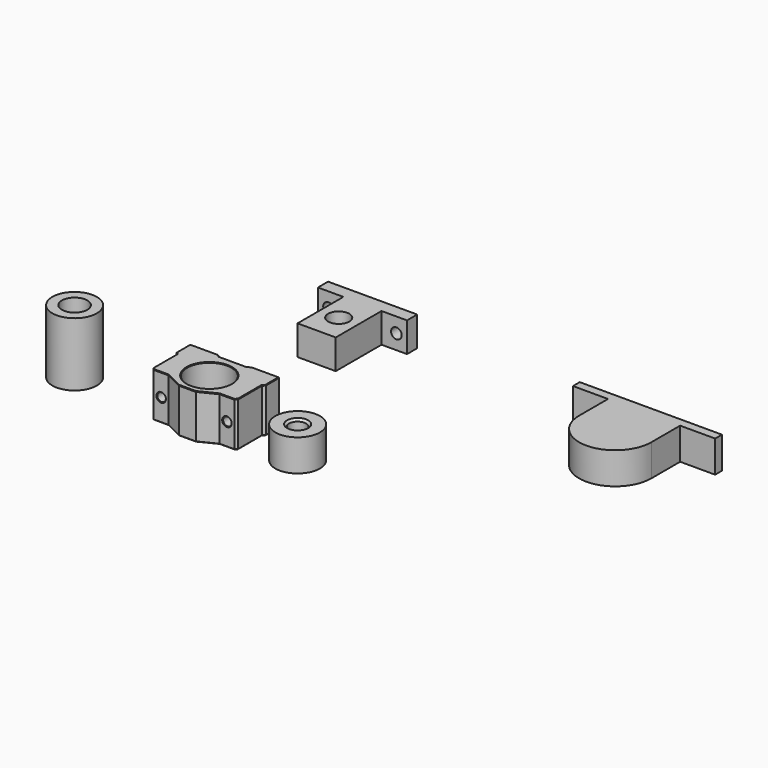
from build123d import *

# Parameters (mm, degrees)
F0_R      = 5
F1_DEPTH  = 14
F2_R      = 2.5
F3_DEPTH  = 6.001
F4_R      = 10.5
F5_DEPTH  = 21
F6_SIZE   = 1
F7_R      = 2
F8_DEPTH  = 28.001
F9_SIZE   = 0.25
F10_R     = 10.5
F10_R_2   = 4
F11_DEPTH = 15
F12_SIZE  = 1
F13_R     = 10.5
F13_R_2   = 6
F14_DEPTH = 30
F16_DEPTH = 15


with BuildPart() as f1:
    # F0 (on Top) → F1 (new body)
    with BuildSketch(Plane.XY):
        Polygon((0, 50.274196), (-21, 50.274196), (-21, 44.274196), (-9, 44.274196), (-9, 17.274196), (9, 17.274196), (9, 44.274196), (21, 44.274196), (21, 50.274196), align=None)
        with Locations((0, 30.274196)):
            Circle(F0_R, mode=Mode.SUBTRACT)
    extrude(amount=F1_DEPTH)

    # F2 (on face) → F3 (cut, through all)
    with BuildSketch(Plane.XZ.offset(-44.274196)):
        with Locations((-16, 7)):
            Circle(F2_R)
        with Locations((16, 7)):
            Circle(F2_R)
    extrude(amount=-F3_DEPTH, mode=Mode.SUBTRACT)


with BuildPart() as f5:
    # F4 (on Top) → F5 (new body)
    with BuildSketch(Plane.XY):
        Polygon((-8, -30.952703), (-21, -30.952703), (-21, -38.952703), (-20, -39.952703), (-20, -54.952703), (-12, -54.952703), (-4, -58.952703), (0, -58.952703), (4, -58.952703), (12, -54.952703), (20, -54.952703), (20, -39.952703), (21, -38.952703), (21, -30.952703), (8, -30.952703), (6.5, -31.952703), (-6.5, -31.952703), align=None)
        with Locations((0, -45.952703)):
            Circle(F4_R, mode=Mode.SUBTRACT)
    extrude(amount=F5_DEPTH)

    # F6
    f6_edges = [f5.edges().sort_by_distance(p)[0] for p in [
        (-20, -54.952703, 10.5),
        (20, -54.952703, 10.5),
    ]]
    chamfer(f6_edges, length=F6_SIZE)

    # F7 (on face) → F8 (cut, through all)
    with BuildSketch(Plane(origin=(0, -30.952703, 0), x_dir=(-1, 0, 0), z_dir=(0, 1, 0))):
        with Locations((15.5, 10.5)):
            Circle(F7_R)
        with Locations((-15.5, 10.5)):
            Circle(F7_R)
    extrude(amount=-F8_DEPTH, mode=Mode.SUBTRACT)

    # F9
    f9_edges = [f5.edges().sort_by_distance(p)[0] for p in [
        (-20, -46.952703, 21),
        (-19.5, -54.452703, 21),
        (-20.5, -39.452703, 21),
        (-15.5, -54.952703, 21),
        (-21, -34.952703, 21),
        (-8, -56.952703, 21),
        (-14.5, -30.952703, 21),
        (0, -58.952703, 21),
        (-7.25, -31.452703, 21),
        (8, -56.952703, 21),
        (0, -31.952703, 21),
        (15.5, -54.952703, 21),
        (7.25, -31.452703, 21),
        (19.5, -54.452703, 21),
        (14.5, -30.952703, 21),
        (20, -46.952703, 21),
        (21, -34.952703, 21),
        (20.5, -39.452703, 21),
        (-10.5, -45.952703, 21),
        (-20, -46.952703, 0),
        (-19.5, -54.452703, 0),
        (-20.5, -39.452703, 0),
        (-15.5, -54.952703, 0),
        (-21, -34.952703, 0),
        (-8, -56.952703, 0),
        (-14.5, -30.952703, 0),
        (0, -58.952703, 0),
        (-7.25, -31.452703, 0),
        (8, -56.952703, 0),
        (0, -31.952703, 0),
        (15.5, -54.952703, 0),
        (7.25, -31.452703, 0),
        (19.5, -54.452703, 0),
        (14.5, -30.952703, 0),
        (20, -46.952703, 0),
        (21, -34.952703, 0),
        (20.5, -39.452703, 0),
        (-10.5, -45.952703, 0),
        (21, -30.952703, 10.5),
        (-21, -30.952703, 10.5),
        (-13.5, -54.952703, 10.5),
        (17.5, -54.952703, 10.5),
        (17.5, -30.952703, 10.5),
        (-13.5, -30.952703, 10.5),
    ]]
    chamfer(f9_edges, length=F9_SIZE)


with BuildPart() as f11:
    # F10 (on Top) → F11 (new body)
    with BuildSketch(Plane.XY):
        with Locations((42.459678, -46.995971)):
            Circle(F10_R)
        with Locations((42.459678, -46.995971)):
            Circle(F10_R_2, mode=Mode.SUBTRACT)
    extrude(amount=F11_DEPTH)

    # F12
    f12_edges = [f11.edges().sort_by_distance(p)[0] for p in [
        (38.459678, -46.995971, 15),
        (38.459678, -46.995971, 0),
    ]]
    chamfer(f12_edges, length=F12_SIZE)


with BuildPart() as f14:
    # F13 (on Top) → F14 (new body)
    with BuildSketch(Plane.XY):
        with Locations((-62.963709, -46.633065)):
            Circle(F13_R)
        with Locations((-62.963709, -46.633065)):
            Circle(F13_R_2, mode=Mode.SUBTRACT)
    extrude(amount=F14_DEPTH)


with BuildPart() as f16:
    # F15 (on Top) → F16 (new body)
    with BuildSketch(Plane.XY):
        with BuildLine():
            ThreePointArc((119.106029, 23.078203), (136.106029, 6.078203), (153.106029, 23.078203))
            ThreePointArc((153.106029, 23.078203), (148.126844, 35.099018), (136.106029, 40.078203))
            ThreePointArc((136.106029, 40.078203), (124.085214, 35.099018), (119.106029, 23.078203))
        make_face()
        with BuildLine():
            ThreePointArc((136.106029, 40.078203), (148.126844, 35.099018), (153.106029, 23.078203))
            Line((153.106029, 23.078203), (153.106029, 40.078203))
            Line((153.106029, 40.078203), (136.106029, 40.078203))
        make_face()
        Polygon((119.106029, 40.078203), (136.106029, 40.078203), (153.106029, 40.078203), (169.606029, 40.078203), (169.606029, 44.078203), (102.606029, 44.078203), (102.606029, 40.078203), align=None)
        with BuildLine():
            ThreePointArc((119.106029, 23.078203), (124.085214, 35.099018), (136.106029, 40.078203))
            Line((136.106029, 40.078203), (119.106029, 40.078203))
            Line((119.106029, 40.078203), (119.106029, 23.078203))
        make_face()
    extrude(amount=F16_DEPTH)


solid = Compound([f1.part, f5.part, f11.part, f14.part, f16.part])
